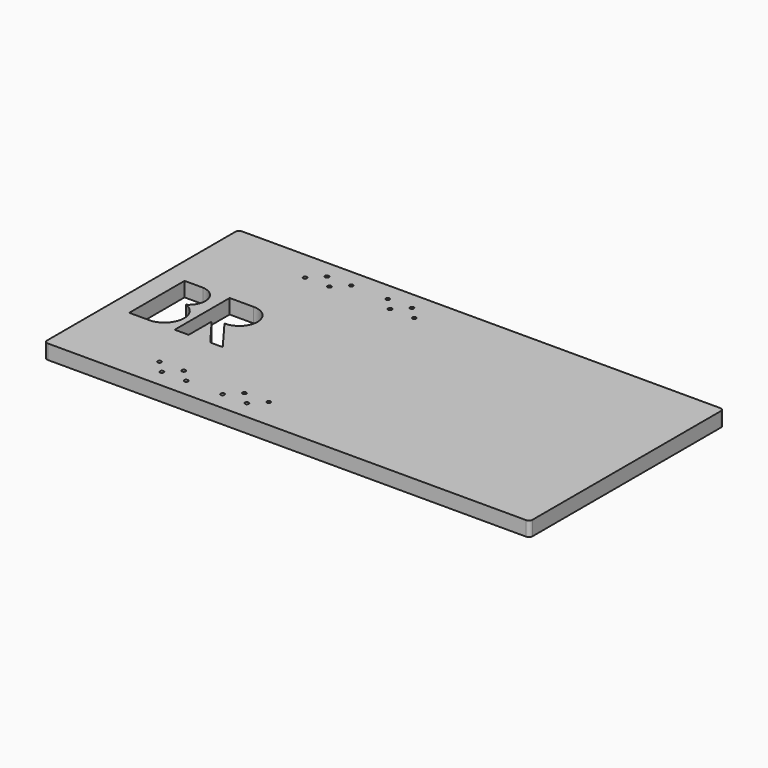
from build123d import *

# Parameters (mm, degrees)
SKETCH_W  = 400
SKETCH_H  = 200
SKETCH_R  = 1.5625
PAD_DEPTH = 12
FILLET_R  = 3


with BuildPart() as part:
    # Sketch → Pad (new body)
    with BuildSketch(Plane.XY):
        with Locations((200, 100)):
            Rectangle(SKETCH_W, SKETCH_H)
        with Locations((85, 15)):
            Circle(SKETCH_R, mode=Mode.SUBTRACT)
        with Locations((105, 15)):
            Circle(SKETCH_R, mode=Mode.SUBTRACT)
        with Locations((75, 25)):
            Circle(SKETCH_R, mode=Mode.SUBTRACT)
        with Locations((95, 25)):
            Circle(SKETCH_R, mode=Mode.SUBTRACT)
        with Locations((155, 15)):
            Circle(SKETCH_R, mode=Mode.SUBTRACT)
        with Locations((135, 15)):
            Circle(SKETCH_R, mode=Mode.SUBTRACT)
        with Locations((145, 25)):
            Circle(SKETCH_R, mode=Mode.SUBTRACT)
        with Locations((165, 25)):
            Circle(SKETCH_R, mode=Mode.SUBTRACT)
        with Locations((85, 185)):
            Circle(SKETCH_R, mode=Mode.SUBTRACT)
        with Locations((105, 185)):
            Circle(SKETCH_R, mode=Mode.SUBTRACT)
        with Locations((75, 175)):
            Circle(SKETCH_R, mode=Mode.SUBTRACT)
        with Locations((95, 175)):
            Circle(SKETCH_R, mode=Mode.SUBTRACT)
        with Locations((155, 185)):
            Circle(SKETCH_R, mode=Mode.SUBTRACT)
        with Locations((135, 185)):
            Circle(SKETCH_R, mode=Mode.SUBTRACT)
        with Locations((145, 175)):
            Circle(SKETCH_R, mode=Mode.SUBTRACT)
        with Locations((165, 175)):
            Circle(SKETCH_R, mode=Mode.SUBTRACT)
        with BuildLine():
            Line((17.211533, 123.076019), (32.421267, 123.076019))
            ThreePointArc((38.702517, 97.693395), (44.851125, 112.683445), (32.421267, 123.076019))
            ThreePointArc((35.228252, 66.093052), (49.45239, 80.520354), (38.702517, 97.693395))
            Line((35.228252, 66.093052), (17.211533, 66.093052))
            Line((17.211533, 66.093052), (17.211533, 123.076019))
        make_face(mode=Mode.SUBTRACT)
        with BuildLine():
            Line((66.260755, 65.953049), (54.781403, 65.953049))
            Line((54.781403, 65.953049), (54.781403, 122.551093))
            Line((74.352173, 122.551093), (54.781403, 122.551093))
            ThreePointArc((74.351683, 92.765599), (89.613073, 107.658094), (74.352173, 122.551093))
            Line((94.033974, 66.33828), (74.351683, 92.765599))
            Line((83.779968, 66.33828), (94.033974, 66.33828))
            Line((66.260755, 89.596498), (83.779968, 66.33828))
            Line((66.260755, 89.596498), (66.260755, 65.953049))
        make_face(mode=Mode.SUBTRACT)
    extrude(amount=PAD_DEPTH)

    # Fillet
    fillet_edges = [part.edges().sort_by_distance(p)[0] for p in [
        (0, 0, 6),
        (400, 0, 6),
        (400, 200, 6),
        (0, 200, 6),
    ]]
    fillet(fillet_edges, radius=FILLET_R)


solid = part.part
